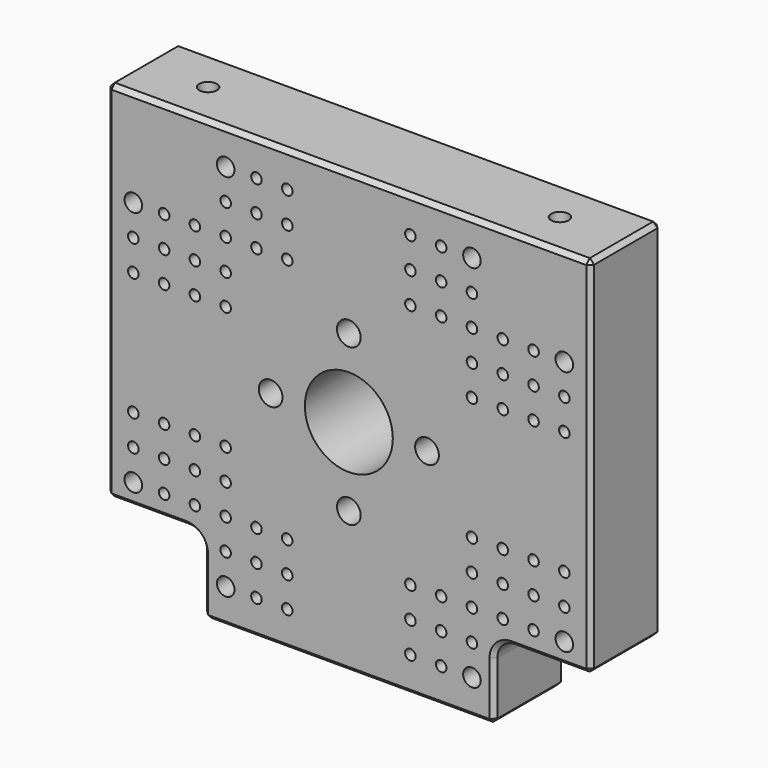
from build123d import *

# Parameters (mm, degrees)
F0_R           = 6
F0_R_2         = 13.5
F0_R_3         = 50
F1_DEPTH       = 100
F3_D           = 13
F3_CBORE_D     = 20
F3_CBORE_DEPTH = 20
F4_SIZE        = 5
F6_D           = 20
F6_DEPTH       = 40
F6_TIP         = 6.0086061903


with BuildPart() as f1:
    # F0 (on Front) → F1 (new body)
    with BuildSketch(Plane.XZ):
        with BuildLine():
            Line((275, 250), (-275, 250))
            Line((-275, 250), (-275, -164))
            Line((-275, -164), (-185, -164))
            ThreePointArc((-185, -164), (-170.8578643763, -169.8578643763), (-165, -184))
            Line((-165, -184), (-165, -250))
            Line((-165, -250), (165, -250))
            Line((165, -250), (165, -184))
            ThreePointArc((165, -184), (170.8578643763, -169.8578643763), (185, -164))
            Line((185, -164), (275, -164))
            Line((275, -164), (275, 250))
        make_face()
        with Locations((-140, -210)):
            Circle(F0_R, mode=Mode.SUBTRACT)
        with Locations((-245, -140)):
            Circle(F0_R, mode=Mode.SUBTRACT)
        with Locations((-210, -140)):
            Circle(F0_R, mode=Mode.SUBTRACT)
        with Locations((-140, -175)):
            Circle(F0_R, mode=Mode.SUBTRACT)
        with Locations((-175, -140)):
            Circle(F0_R, mode=Mode.SUBTRACT)
        with Locations((-140, -140)):
            Circle(F0_R, mode=Mode.SUBTRACT)
        with Locations((-105, -210)):
            Circle(F0_R, mode=Mode.SUBTRACT)
        with Locations((-70, -210)):
            Circle(F0_R, mode=Mode.SUBTRACT)
        with Locations((-105, -175)):
            Circle(F0_R, mode=Mode.SUBTRACT)
        with Locations((-70, -175)):
            Circle(F0_R, mode=Mode.SUBTRACT)
        with Locations((-105, -140)):
            Circle(F0_R, mode=Mode.SUBTRACT)
        with Locations((-70, -140)):
            Circle(F0_R, mode=Mode.SUBTRACT)
        with Locations((-245, -105)):
            Circle(F0_R, mode=Mode.SUBTRACT)
        with Locations((-210, -105)):
            Circle(F0_R, mode=Mode.SUBTRACT)
        with Locations((-245, -70)):
            Circle(F0_R, mode=Mode.SUBTRACT)
        with Locations((-210, -70)):
            Circle(F0_R, mode=Mode.SUBTRACT)
        with Locations((-175, -105)):
            Circle(F0_R, mode=Mode.SUBTRACT)
        with Locations((-140, -105)):
            Circle(F0_R, mode=Mode.SUBTRACT)
        with Locations((-175, -70)):
            Circle(F0_R, mode=Mode.SUBTRACT)
        with Locations((-140, -70)):
            Circle(F0_R, mode=Mode.SUBTRACT)
        with Locations((70, -210)):
            Circle(F0_R, mode=Mode.SUBTRACT)
        with Locations((105, -210)):
            Circle(F0_R, mode=Mode.SUBTRACT)
        with Locations((70, -175)):
            Circle(F0_R, mode=Mode.SUBTRACT)
        with Locations((105, -175)):
            Circle(F0_R, mode=Mode.SUBTRACT)
        with Locations((70, -140)):
            Circle(F0_R, mode=Mode.SUBTRACT)
        with Locations((105, -140)):
            Circle(F0_R, mode=Mode.SUBTRACT)
        with Locations((140, -210)):
            Circle(F0_R, mode=Mode.SUBTRACT)
        with Locations((140, -175)):
            Circle(F0_R, mode=Mode.SUBTRACT)
        with Locations((140, -140)):
            Circle(F0_R, mode=Mode.SUBTRACT)
        with Locations((175, -140)):
            Circle(F0_R, mode=Mode.SUBTRACT)
        with Locations((210, -140)):
            Circle(F0_R, mode=Mode.SUBTRACT)
        with Locations((245, -140)):
            Circle(F0_R, mode=Mode.SUBTRACT)
        with Locations((0, -88.9)):
            Circle(F0_R_2, mode=Mode.SUBTRACT)
        with Locations((140, -105)):
            Circle(F0_R, mode=Mode.SUBTRACT)
        with Locations((175, -105)):
            Circle(F0_R, mode=Mode.SUBTRACT)
        with Locations((140, -70)):
            Circle(F0_R, mode=Mode.SUBTRACT)
        with Locations((175, -70)):
            Circle(F0_R, mode=Mode.SUBTRACT)
        with Locations((210, -105)):
            Circle(F0_R, mode=Mode.SUBTRACT)
        with Locations((245, -105)):
            Circle(F0_R, mode=Mode.SUBTRACT)
        with Locations((210, -70)):
            Circle(F0_R, mode=Mode.SUBTRACT)
        with Locations((245, -70)):
            Circle(F0_R, mode=Mode.SUBTRACT)
        with Locations((-245, 70)):
            Circle(F0_R, mode=Mode.SUBTRACT)
        with Locations((-210, 70)):
            Circle(F0_R, mode=Mode.SUBTRACT)
        with Locations((-245, 105)):
            Circle(F0_R, mode=Mode.SUBTRACT)
        with Locations((-210, 105)):
            Circle(F0_R, mode=Mode.SUBTRACT)
        with Locations((-175, 70)):
            Circle(F0_R, mode=Mode.SUBTRACT)
        with Locations((-140, 70)):
            Circle(F0_R, mode=Mode.SUBTRACT)
        with Locations((-175, 105)):
            Circle(F0_R, mode=Mode.SUBTRACT)
        with Locations((-140, 105)):
            Circle(F0_R, mode=Mode.SUBTRACT)
        with Locations((-88.9, 0)):
            Circle(F0_R_2, mode=Mode.SUBTRACT)
        with Locations((-245, 140)):
            Circle(F0_R, mode=Mode.SUBTRACT)
        with Locations((-210, 140)):
            Circle(F0_R, mode=Mode.SUBTRACT)
        with Locations((-175, 140)):
            Circle(F0_R, mode=Mode.SUBTRACT)
        with Locations((-140, 140)):
            Circle(F0_R, mode=Mode.SUBTRACT)
        with Locations((-140, 175)):
            Circle(F0_R, mode=Mode.SUBTRACT)
        with Locations((-140, 210)):
            Circle(F0_R, mode=Mode.SUBTRACT)
        with Locations((-105, 140)):
            Circle(F0_R, mode=Mode.SUBTRACT)
        with Locations((-70, 140)):
            Circle(F0_R, mode=Mode.SUBTRACT)
        with Locations((-105, 175)):
            Circle(F0_R, mode=Mode.SUBTRACT)
        with Locations((-70, 175)):
            Circle(F0_R, mode=Mode.SUBTRACT)
        with Locations((-105, 210)):
            Circle(F0_R, mode=Mode.SUBTRACT)
        with Locations((-70, 210)):
            Circle(F0_R, mode=Mode.SUBTRACT)
        Circle(F0_R_3, mode=Mode.SUBTRACT)
        with Locations((88.9, 0)):
            Circle(F0_R_2, mode=Mode.SUBTRACT)
        with Locations((0, 88.9)):
            Circle(F0_R_2, mode=Mode.SUBTRACT)
        with Locations((140, 70)):
            Circle(F0_R, mode=Mode.SUBTRACT)
        with Locations((175, 70)):
            Circle(F0_R, mode=Mode.SUBTRACT)
        with Locations((140, 105)):
            Circle(F0_R, mode=Mode.SUBTRACT)
        with Locations((175, 105)):
            Circle(F0_R, mode=Mode.SUBTRACT)
        with Locations((210, 70)):
            Circle(F0_R, mode=Mode.SUBTRACT)
        with Locations((245, 70)):
            Circle(F0_R, mode=Mode.SUBTRACT)
        with Locations((210, 105)):
            Circle(F0_R, mode=Mode.SUBTRACT)
        with Locations((245, 105)):
            Circle(F0_R, mode=Mode.SUBTRACT)
        with Locations((70, 140)):
            Circle(F0_R, mode=Mode.SUBTRACT)
        with Locations((105, 140)):
            Circle(F0_R, mode=Mode.SUBTRACT)
        with Locations((70, 175)):
            Circle(F0_R, mode=Mode.SUBTRACT)
        with Locations((105, 175)):
            Circle(F0_R, mode=Mode.SUBTRACT)
        with Locations((70, 210)):
            Circle(F0_R, mode=Mode.SUBTRACT)
        with Locations((105, 210)):
            Circle(F0_R, mode=Mode.SUBTRACT)
        with Locations((140, 140)):
            Circle(F0_R, mode=Mode.SUBTRACT)
        with Locations((175, 140)):
            Circle(F0_R, mode=Mode.SUBTRACT)
        with Locations((140, 175)):
            Circle(F0_R, mode=Mode.SUBTRACT)
        with Locations((210, 140)):
            Circle(F0_R, mode=Mode.SUBTRACT)
        with Locations((245, 140)):
            Circle(F0_R, mode=Mode.SUBTRACT)
        with Locations((140, 210)):
            Circle(F0_R, mode=Mode.SUBTRACT)
    extrude(amount=F1_DEPTH)

    # F3 (through all)
    with Locations(Plane.XZ.offset(100)):
        with Locations((-245, 140), (245, 140), (245, -140), (-245, -140), (-140, 210), (140, -210), (-140, -210), (140, 210)):
            CounterBoreHole(F3_D / 2, F3_CBORE_D / 2, F3_CBORE_DEPTH)

    # F4
    f4_edges = [f1.edges().sort_by_distance(p)[0] for p in [
        (-275, -100, 43),
        (0, -100, 250),
        (275, -100, 43),
        (230, -100, -164),
        (0, -100, -250),
        (-165, -100, -217),
        (275, 0, 43),
        (0, 0, 250),
        (275, -50, 250),
        (230, 0, -164),
        (0, 0, -250),
        (-170.857864, 0, -169.857864),
        (-275, -50, -164),
        (-275, 0, 43),
        (-165, -50, -250),
        (165, -50, -250),
        (275, -50, -164),
        (-275, -50, 250),
    ]]
    chamfer(f4_edges, length=F4_SIZE)

    # F6
    with Locations(Plane.XY.offset(250)):
        with Locations((-200, -50), (200, -50)):
            Hole(F6_D / 2, depth=F6_DEPTH)
            with Locations((0, 0, -(F6_DEPTH + F6_TIP / 2))):  # 118° drill point
                Cone(0, F6_D / 2, F6_TIP, mode=Mode.SUBTRACT)


solid = f1.part
